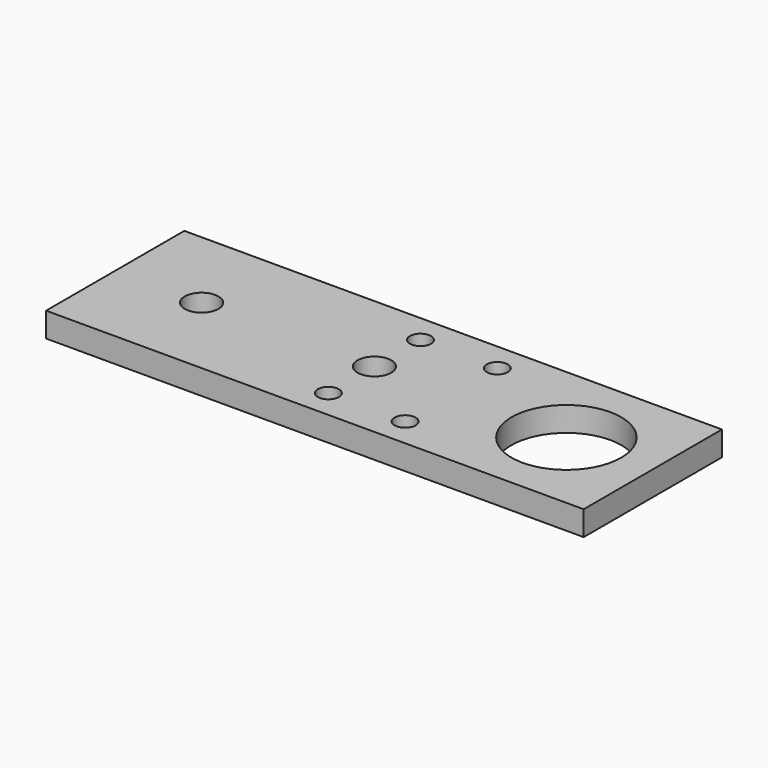
from build123d import *

# Parameters (mm, degrees)
F0_W     = 140
F0_H     = 45
F0_R     = 14.2875
F1_DEPTH = 6.4
F3_D     = 8.8
F5_D     = 5.5
F5_DEPTH = 13.5
F5_TIP   = 1.6523667023


with BuildPart() as f1:
    # F0 (on Top) → F1 (new body)
    with BuildSketch(Plane.XY):
        Rectangle(F0_W, F0_H)
        with Locations((47.5, 0)):
            Circle(F0_R, mode=Mode.SUBTRACT)
    extrude(amount=F1_DEPTH)

    # F3 (through all)
    with Locations(Plane(origin=(0, 0, 0), x_dir=(1, 0, 0), z_dir=(0, 0, -1))):
        with Locations((-47.5, 0), (-2.5, 0)):
            Hole(F3_D / 2)

    # F5
    with Locations(Plane(origin=(0, 0, 0), x_dir=(1, 0, 0), z_dir=(0, 0, -1))):
        with Locations((-2.5, -15), (17.5, -15), (17.5, 15), (-2.5, 15)):
            Hole(F5_D / 2, depth=F5_DEPTH)
            with Locations((0, 0, -(F5_DEPTH + F5_TIP / 2))):  # 118° drill point
                Cone(0, F5_D / 2, F5_TIP, mode=Mode.SUBTRACT)


solid = f1.part
